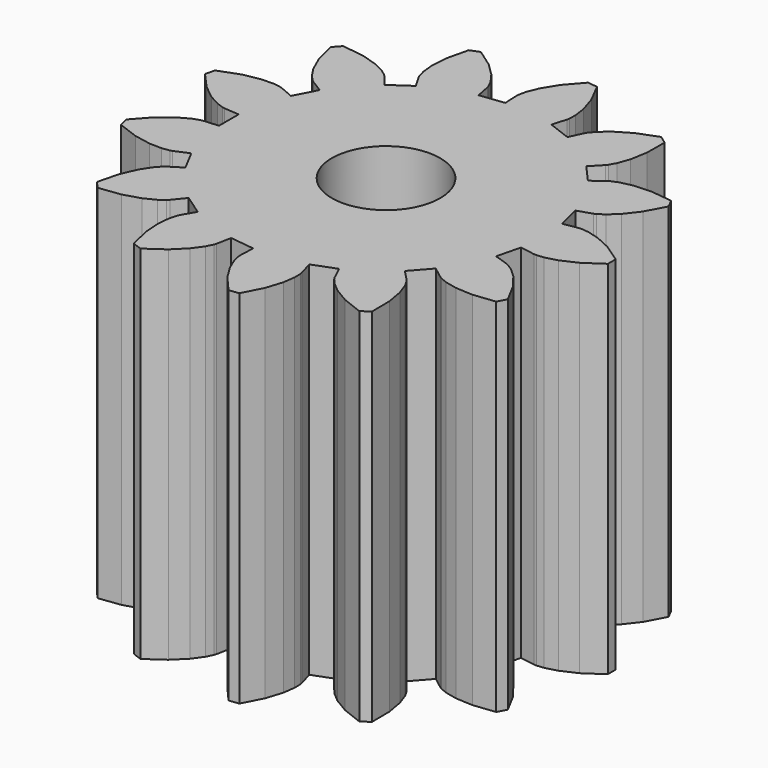
from build123d import *

# Parameters (mm, degrees)
CYLINDER001_R          = 1.5
CYLINDER001_DEPTH      = 12
LINEAREXTRUDE001_DEPTH = 10


with BuildPart() as cylinder001:
    # cylinder001 → cylinder001 (new body)
    with BuildSketch(Plane.XY.offset(-1)):
        Circle(CYLINDER001_R)
    extrude(amount=CYLINDER001_DEPTH)


with BuildPart() as difference002:
    # union001 → LinearExtrude001 (new body)
    with BuildSketch(Plane(origin=(0, 0, 0), x_dir=(0, 1, 0), z_dir=(0, 0, 1))):
        Polygon((0.711931, -4.306123), (1.370771, -4.143733), (1.502069, -4.540636), (1.530367, -4.602072), (1.641751, -4.771632), (1.871155, -5.020002), (2.245545, -5.309618), (2.782207, -5.596589), (3.025427, -5.468937), (3.094113, -4.864255), (3.068442, -4.391617), (2.994354, -4.061731), (2.918082, -3.873743), (2.883597, -3.815555), (2.631538, -3.482032), (3.139447, -3.032064), (3.440155, -3.322487), (3.493763, -3.363735), (3.671187, -3.46211), (3.989737, -3.575421), (4.455834, -3.657875), (5.064387, -3.662577), (5.220426, -3.436516), (5.000234, -2.869177), (4.757857, -2.462607), (4.53895, -2.204938), (4.384052, -2.073928), (4.326475, -2.038431), (3.948292, -1.860249), (4.188912, -1.225786), (4.590143, -1.343197), (4.656779, -1.354807), (4.859597, -1.359461), (5.194318, -1.311756), (5.645345, -1.168159), (6.186377, -0.889514), (6.219486, -0.616832), (5.76086, -0.216806), (5.357304, 0.030555), (5.043726, 0.156979), (4.845688, 0.200998), (4.77821, 0.205671), (4.36054, 0.187693), (4.278749, 0.861305), (4.688584, 0.943805), (4.752983, 0.964491), (4.934732, 1.054624), (5.208943, 1.252418), (5.541575, 1.58917), (5.891142, 2.087328), (5.793738, 2.344162), (5.201743, 2.485233), (4.729457, 2.516719), (4.393046, 2.482935), (4.197235, 2.429879), (4.135314, 2.402658), (3.773841, 2.192639), (3.388376, 2.751081), (3.712928, 3.01459), (3.760337, 3.062835), (3.879381, 3.227107), (4.030263, 3.529677), (4.168298, 3.982437), (4.246318, 4.585986), (4.040715, 4.768136), (3.45097, 4.617935), (3.018149, 4.426332), (2.735972, 4.240079), (2.587247, 4.102103), (2.545069, 4.049224), (2.322601, 3.695276), (1.721767, 4.010618), (1.886685, 4.394771), (1.906243, 4.459522), (1.93531, 4.6603), (1.928298, 4.99833), (1.840114, 5.463378), (1.628715, 6.034052), (1.362012, 6.099788), (0.909622, 5.692724), (0.61542, 5.321926), (0.452121, 5.025874), (0.384552, 4.834585), (0.371779, 4.768162), (0.339281, 4.351371), (-0.339281, 4.351371), (-0.371779, 4.768162), (-0.384552, 4.834585), (-0.452121, 5.025874), (-0.61542, 5.321926), (-0.909622, 5.692724), (-1.362012, 6.099788), (-1.628715, 6.034052), (-1.840114, 5.463378), (-1.928298, 4.99833), (-1.93531, 4.6603), (-1.906243, 4.459522), (-1.886685, 4.394771), (-1.721767, 4.010618), (-2.322601, 3.695276), (-2.545069, 4.049224), (-2.587247, 4.102103), (-2.735972, 4.240079), (-3.018149, 4.426332), (-3.45097, 4.617935), (-4.040715, 4.768136), (-4.246318, 4.585986), (-4.168298, 3.982437), (-4.030263, 3.529677), (-3.879381, 3.227107), (-3.760337, 3.062835), (-3.712928, 3.01459), (-3.388376, 2.751081), (-3.773841, 2.192638), (-4.135314, 2.402658), (-4.197235, 2.429879), (-4.393046, 2.482935), (-4.729457, 2.516719), (-5.201743, 2.485233), (-5.793738, 2.344162), (-5.891142, 2.087328), (-5.541575, 1.58917), (-5.208943, 1.252418), (-4.934732, 1.054624), (-4.752983, 0.964491), (-4.688584, 0.943805), (-4.278749, 0.861305), (-4.36054, 0.187693), (-4.77821, 0.205671), (-4.845688, 0.200998), (-5.043726, 0.156979), (-5.357304, 0.030555), (-5.76086, -0.216806), (-6.219486, -0.616832), (-6.186377, -0.889514), (-5.645345, -1.168159), (-5.194318, -1.311756), (-4.859597, -1.359461), (-4.656779, -1.354807), (-4.590143, -1.343197), (-4.188912, -1.225786), (-3.948292, -1.860249), (-4.326475, -2.038431), (-4.384052, -2.073928), (-4.53895, -2.204938), (-4.757857, -2.462607), (-5.000234, -2.869177), (-5.220426, -3.436516), (-5.064387, -3.662577), (-4.455834, -3.657875), (-3.989737, -3.575421), (-3.671187, -3.46211), (-3.493763, -3.363735), (-3.440155, -3.322487), (-3.139447, -3.032064), (-2.631537, -3.482032), (-2.883597, -3.815555), (-2.918082, -3.873743), (-2.994354, -4.061731), (-3.068442, -4.391617), (-3.094113, -4.864255), (-3.025427, -5.468937), (-2.782207, -5.596589), (-2.245545, -5.309618), (-1.871155, -5.020002), (-1.641751, -4.771632), (-1.530367, -4.602072), (-1.502069, -4.540636), (-1.370771, -4.143733), (-0.71193, -4.306122), (-0.780122, -4.71858), (-0.783616, -4.78613), (-0.763789, -4.98803), (-0.676085, -5.31456), (-0.47917, -5.74499), (-0.137342, -6.24849), (0.137342, -6.24849), (0.47917, -5.74499), (0.676085, -5.31456), (0.763789, -4.98803), (0.783616, -4.78613), (0.780122, -4.71858), align=None)
    extrude(amount=LINEAREXTRUDE001_DEPTH)

    # difference002: cut cylinder001
    add(cylinder001.part, mode=Mode.SUBTRACT)


with BuildPart() as difference002_1:
    # difference002 placement: moved
    add(difference002.part.moved(Location((11, 0, 0))))


solid = difference002_1.part
